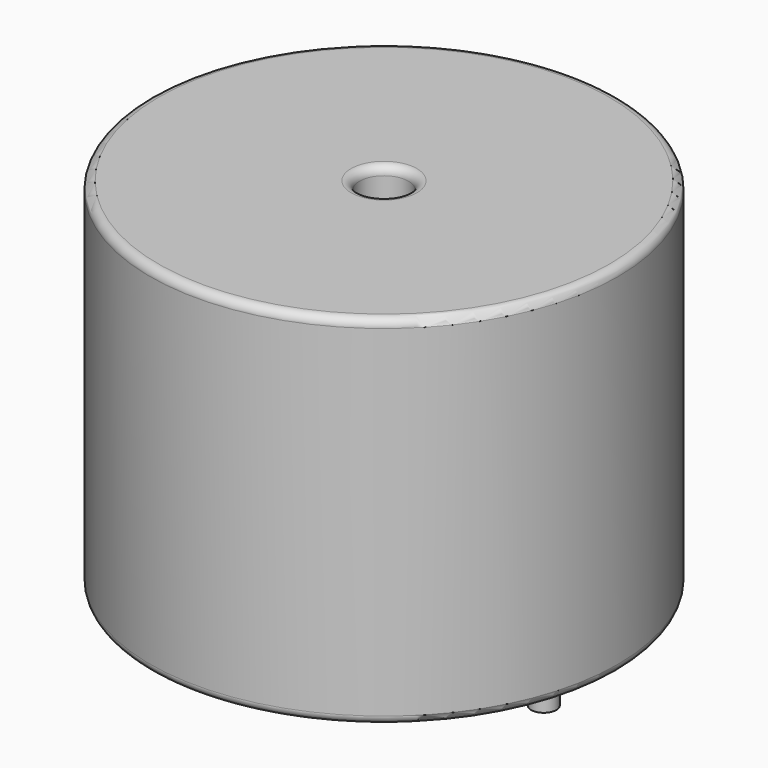
from build123d import *

# Parameters (mm, degrees)
SKETCH001_R       = 0.75
PAD001_DEPTH      = 10.67
PAD001_DEPTH_BACK = 3.5
SKETCH_R          = 13.95
SKETCH_R_2        = 1.46
PAD_DEPTH         = 21.34
FILLET_R          = 0.5


with BuildPart() as pad001:
    # Sketch001 → Pad001 (new body, two sides)
    with BuildSketch(Plane.XY.offset(0.5)) as pad001_sk:
        Circle(SKETCH001_R)
        with Locations((19.05, 0)):
            Circle(SKETCH001_R)
    extrude(amount=PAD001_DEPTH)
    extrude(pad001_sk.sketch, amount=-PAD001_DEPTH_BACK)


with BuildPart() as obj1:
    # Sketch → Pad (new body)
    with BuildSketch(Plane.XY.offset(0.1)):
        with Locations((9.525, 0)):
            Circle(SKETCH_R)
        with Locations((9.525, 0)):
            Circle(SKETCH_R_2, mode=Mode.SUBTRACT)
    extrude(amount=PAD_DEPTH)

    # Fillet
    fillet_edges = [obj1.edges().sort_by_distance(p)[0] for p in [
        (8.065, 0, 21.44),
        (-4.425, 0, 21.44),
        (-4.425, 0, 0.1),
    ]]
    fillet(fillet_edges, radius=FILLET_R)

    # obj1: union Pad001
    add(pad001.part)


solid = obj1.part
